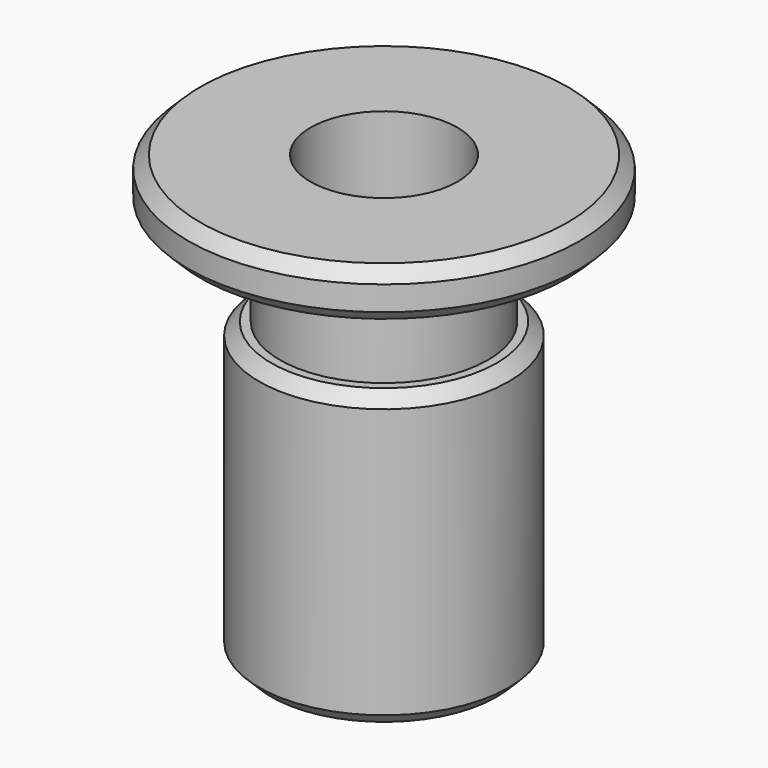
from build123d import *

# Parameters (mm, degrees)
F2_SIZE2 = 0.5
F2_SIZE  = 0.5


with BuildPart() as f1:
    # F0 (on Front) → F1 (revolve)
    with BuildSketch(Plane.XZ):
        Polygon((3, 18), (3, 0), (5.1, 0), (5.1, 12), (4.25, 12), (4.25, 16), (8, 16), (8, 18), align=None)
    revolve(axis=Axis((0, 0, 4.66205), (0, 0, 1)))

    # F2
    f2_edges = [f1.edges().sort_by_distance(p)[0] for p in [
        (-8, 0, 18),
        (-8, 0, 16),
        (-5.1, 0, 12),
        (-5.1, 0, 0),
    ]]
    chamfer(f2_edges, length=F2_SIZE, length2=F2_SIZE2)


solid = f1.part
